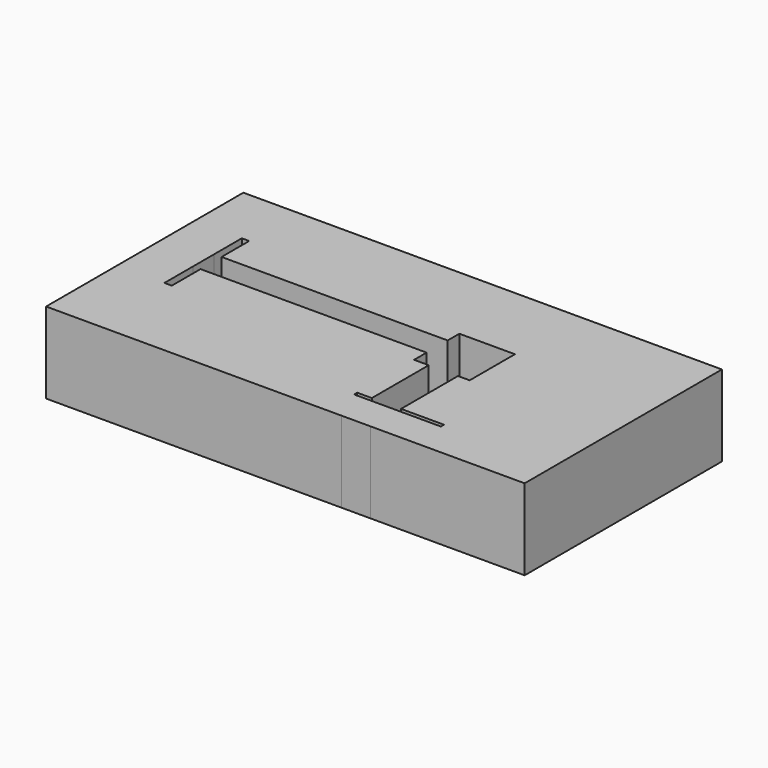
from build123d import *

# Parameters (mm, degrees)
F0_W     = 14.810627
F0_H     = 8.248472
F0_W_2   = 9.164972
F0_H_2   = 10.692463
F1_DEPTH = 25.4


with BuildPart() as f1:
    # F0 (on Top) → F1 (new body)
    with BuildSketch(Plane.XY):
        with Locations((-61.219908, 0.939753)):
            Rectangle(F0_W, F0_H)
        with Locations((28.523458, -36.942119)):
            Rectangle(F0_W_2, F0_H_2)
        Polygon((-53.814595, -3.184483), (-68.625222, -3.184483), (-68.625222, -42.288351), (23.940972, -42.288351), (23.940972, -31.595888), (19.35849, -31.595888), (19.35849, -30.373894), (23.940972, -30.373894), (23.940972, -8.072467), (19.35849, -8.072467), (19.35849, -3.184483), (-51.502559, -3.184483), (-51.502559, -14.432323), (-53.814595, -14.432323), align=None)
        Polygon((81.374778, 35.00289), (-68.625222, 35.00289), (-68.625222, 5.063989), (-53.814595, 5.063989), (-53.814595, 15.88105), (-51.502559, 15.88105), (-51.502559, 5.063989), (19.35849, 5.063989), (19.35849, 9.646473), (36.771929, 9.646473), (36.771929, -8.072467), (33.105944, -8.072467), (33.105944, -30.373894), (46.547895, -30.373894), (46.547895, -31.595888), (33.105944, -31.595888), (33.105944, -42.288351), (81.374778, -42.288351), align=None)
    extrude(amount=F1_DEPTH)


solid = f1.part
